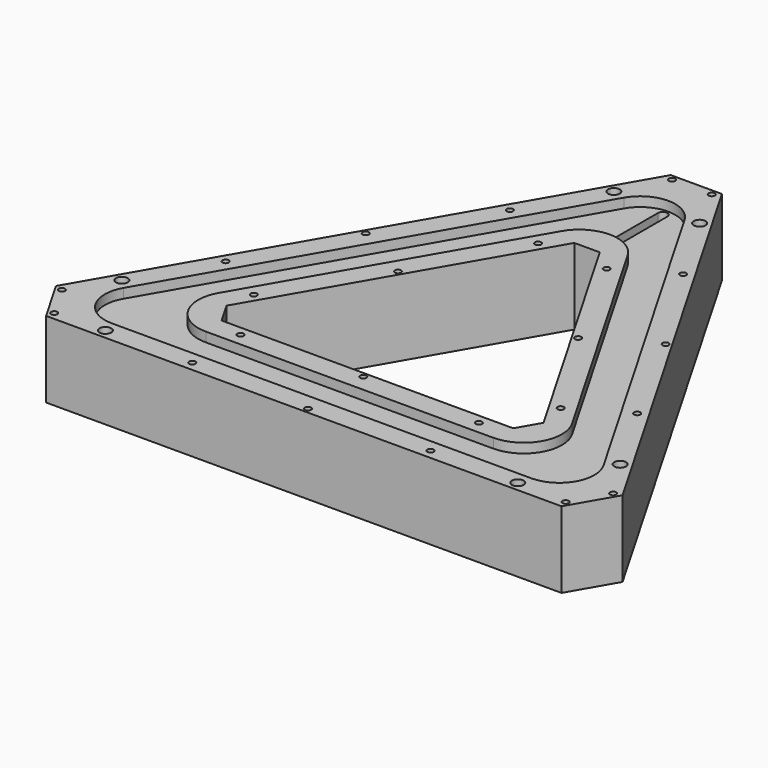
from build123d import *

# Parameters (mm, degrees)
PAD_DEPTH             = 24
POCKET_DEPTH          = 3
SKETCH002_W           = 70
SKETCH002_H           = 18.5
POCKET001_DEPTH       = 18
POLARPATTERN_COUNT    = 3
POCKET002_DEPTH       = 6
CHAMFER_SIZE          = 8
FILLET_R              = 13
FILLET001_R           = 11
CHAMFER001_SIZE       = 16.1
FILLET002_R           = 11
FILLET003_R           = 12
POCKET003_DEPTH       = 6
POCKET004_DEPTH       = 18
POCKET005_DEPTH       = 21.001
SKETCH007_W           = 15.5
SKETCH007_H           = 15
POCKET006_DEPTH       = 5
SKETCH010_W           = 13.6
SKETCH010_H           = 9
POCKET009_DEPTH       = 15.5
POCKET010_DEPTH       = 3
SKETCH012_R           = 1.85
SKETCH012_R_2         = 0.99
POCKET011_DEPTH       = 498.0492855781
POLARPATTERN001_COUNT = 3
POCKET012_DEPTH       = 12
POCKET013_DEPTH       = 3


with BuildPart() as part:
    # Sketch → Pad (new body)
    with BuildSketch(Plane.XY):
        Polygon((0, 112.2094915052), (-97.1762701892, -56.1047457526), (97.1762701892, -56.1047457526), align=None)
        Polygon((0, 62.2094915052), (-53.875, -31.1047457526), (53.875, -31.1047457526), align=None, mode=Mode.SUBTRACT)
    extrude(amount=PAD_DEPTH)

    # Sketch001 (on Face8 of Pad) → Pocket (cut)
    with BuildSketch(Plane.XY.offset(24)):
        Polygon((0, 98.2094915052), (-85.0519145362, -49.1047457526), (85.0519145362, -49.1047457526), align=None)
        Polygon((0, 76.2094915052), (-65.999355653, -38.1047457526), (65.999355653, -38.1047457526), align=None, mode=Mode.SUBTRACT)
    extrude(amount=-POCKET_DEPTH, mode=Mode.SUBTRACT)

    # Sketch002 (on Face4 of Pocket) → Pocket001 (cut)
    with BuildSketch(Plane(origin=(0, 0, 0), x_dir=(1, 0, 0), z_dir=(0, 0, -1))):
        with Locations((0, 43.6047457526)):
            Rectangle(SKETCH002_W, SKETCH002_H)
    pocket001 = extrude(amount=-POCKET001_DEPTH, mode=Mode.SUBTRACT)

    # PolarPattern: Pocket001 ×3 about axis
    polarpattern_axis = Axis((0, 0, 0), (0, 0, -1))
    for i in range(1, POLARPATTERN_COUNT):
        add(pocket001.rotate(polarpattern_axis, i * 360 / POLARPATTERN_COUNT), mode=Mode.SUBTRACT)

    # Sketch003 (on Face4 of PolarPattern) → Pocket002 (cut)
    with BuildSketch(Plane(origin=(0, 0, 0), x_dir=(1, 0, 0), z_dir=(0, 0, -1))):
        Polygon((0, -100.2094915052), (86.7839653438, 50.1047457526), (-86.7839653438, 50.1047457526), align=None)
        Polygon((0, -74.2094915052), (64.2673048454, 37.1047457526), (-64.2673048454, 37.1047457526), align=None, mode=Mode.SUBTRACT)
    extrude(amount=-POCKET002_DEPTH, mode=Mode.SUBTRACT)

    # Chamfer
    chamfer_edges = [part.edges().sort_by_distance(p)[0] for p in [
        (-53.875, -31.104746, 12),
        (53.875, -31.104746, 12),
        (0, 62.209492, 12),
    ]]
    chamfer(chamfer_edges, length=CHAMFER_SIZE)

    # Fillet
    fillet_edges = [part.edges().sort_by_distance(p)[0] for p in [
        (0, 100.209492, 3),
        (-86.783965, -50.104746, 3),
        (86.783965, -50.104746, 3),
    ]]
    fillet(fillet_edges, radius=FILLET_R)

    # Fillet001
    fillet001_edges = [part.edges().sort_by_distance(p)[0] for p in [
        (0, 74.209492, 3),
        (64.267305, -37.104746, 3),
        (-64.267305, -37.104746, 3),
    ]]
    fillet(fillet001_edges, radius=FILLET001_R)

    # Chamfer001
    chamfer001_edges = [part.edges().sort_by_distance(p)[0] for p in [
        (97.17627, -56.104746, 12),
        (0, 112.209492, 12),
        (-97.17627, -56.104746, 12),
    ]]
    chamfer(chamfer001_edges, length=CHAMFER001_SIZE)

    # Fillet002
    fillet002_edges = [part.edges().sort_by_distance(p)[0] for p in [
        (0, 98.209492, 22.5),
        (-85.051915, -49.104746, 22.5),
        (85.051915, -49.104746, 22.5),
    ]]
    fillet(fillet002_edges, radius=FILLET002_R)

    # Fillet003
    fillet003_edges = [part.edges().sort_by_distance(p)[0] for p in [
        (65.999356, -38.104746, 22.5),
        (0, 76.209492, 22.5),
        (-65.999356, -38.104746, 22.5),
    ]]
    fillet(fillet003_edges, radius=FILLET003_R)

    # Sketch004 (on Face60 of Fillet003) → Pocket003 (cut)
    with BuildSketch(Plane(origin=(0, 0, 6), x_dir=(1, 0, 0), z_dir=(0, 0, -1))):
        Polygon((-8.75, -71.2664825043), (8.75, -71.2664825043), (8.75, -94.7664825043), (4, -94.7664825043), (4, -98.2664825043), (-4, -98.2664825043), (-4, -94.7664825043), (-8.75, -94.7664825043), align=None)
    extrude(amount=-POCKET003_DEPTH, mode=Mode.SUBTRACT)

    # Sketch005 (on Face29 of Pocket003) → Pocket004 (cut)
    with BuildSketch(Plane(origin=(0, 0, 0), x_dir=(1, 0, 0), z_dir=(0, 0, -1))):
        Polygon((46.1715988394, 38.9547457526), (68.6882593378, 51.9547457526), (79.3382593378, 33.508404652), (56.8215988394, 20.508404652), align=None)
    extrude(amount=-POCKET004_DEPTH, mode=Mode.SUBTRACT)

    # Sketch006 (on Face1 of Pocket004) → Pocket005 (cut, through all)
    with BuildSketch(Plane.XY.offset(21)):
        with BuildLine():
            ThreePointArc((1.5, 85.0404521425), (0, 86.5404521425), (-1.5, 85.0404521425))
            Line((-1.5, 85.0404521425), (-1.5, 66.0404521425))
            ThreePointArc((-1.5, 66.0404521425), (0, 64.5404521425), (1.5, 66.0404521425))
            Line((1.5, 85.0404521425), (1.5, 66.0404521425))
        make_face()
    extrude(amount=-POCKET005_DEPTH, mode=Mode.SUBTRACT)

    # Sketch007 (on Face24 of Pocket005) → Pocket006 (cut)
    with BuildSketch(Plane(origin=(-48.5881350946, 28.0523728763, 0), x_dir=(-0.5, -0.8660254038, 0), z_dir=(-0.8660254038, 0.5, 0))):
        with Locations((-47.3262701892, 13.5)):
            Rectangle(SKETCH007_W, SKETCH007_H)
    extrude(amount=-POCKET006_DEPTH, mode=Mode.SUBTRACT)

    # Sketch010 (on Face79 of Pocket006) → Pocket009 (cut)
    with BuildSketch(Plane(origin=(-44.2580080757, 25.5523728763, 0), x_dir=(-0.5, -0.8660254038, 0), z_dir=(-0.8660254038, 0.5, 0))):
        with Locations((-47.3262701892, 13.5)):
            Rectangle(SKETCH010_W, SKETCH010_H)
    extrude(amount=-POCKET009_DEPTH, mode=Mode.SUBTRACT)

    # Sketch011 (on Face21 of Pocket009) → Pocket010 (cut)
    with BuildSketch(Plane(origin=(0, 0, 6), x_dir=(1, 0, 0), z_dir=(0, 0, -1))):
        Polygon((-21.0413798427, -59.7570681827), (-11.6817654684, -54.3532923042), (-6.658482036, -63.0538744299), (-16.0180964103, -68.4576503084), align=None)
    extrude(amount=-POCKET010_DEPTH, mode=Mode.SUBTRACT)

    # Sketch012 (on Face54 of Pocket010) → Pocket011 (cut, through all)
    with BuildSketch(Plane(origin=(0, 0, 0), x_dir=(1, 0, 0), z_dir=(0, 0, -1))):
        with Locations((-13.5, -82.7032108255)):
            Circle(SKETCH012_R)
        with Locations((13.5, -82.7032108255)):
            Circle(SKETCH012_R)
        with Locations((-6.25, -96.5164825043)):
            Circle(SKETCH012_R_2)
        with Locations((6.25, -96.5164825043)):
            Circle(SKETCH012_R_2)
        with Locations((-27.2463245869, -59.0174730012)):
            Circle(SKETCH012_R_2)
        with Locations((-47.1862074814, -27.2405827309)):
            Circle(SKETCH012_R_2)
        with Locations((-64.7337931796, 5.9127272486)):
            Circle(SKETCH012_R_2)
        with Locations((-10.791841915, -49.5174730012)):
            Circle(SKETCH012_R_2)
        with Locations((-28.3394276132, -16.3641630217)):
            Circle(SKETCH012_R_2)
        with Locations((-48.2793105078, 15.4127272487)):
            Circle(SKETCH012_R_2)
    pocket011 = extrude(amount=-POCKET011_DEPTH, mode=Mode.SUBTRACT)

    # PolarPattern001: Pocket011 ×3 about axis
    polarpattern001_axis = Axis((0, 0, 0), (0, 0, -1))
    for i in range(1, POLARPATTERN001_COUNT):
        add(pocket011.rotate(polarpattern001_axis, i * 360 / POLARPATTERN001_COUNT), mode=Mode.SUBTRACT)

    # Sketch013 (on Face132 of PolarPattern001) → Pocket012 (cut)
    with BuildSketch(Plane(origin=(0, 0, 6), x_dir=(1, 0, 0), z_dir=(0, 0, -1))):
        Polygon((58.553649647, 21.508404652), (63.3167893678, 24.258404652), (66.3167893678, 19.0622522293), (61.553649647, 16.3122522293), align=None)
    extrude(amount=-POCKET012_DEPTH, mode=Mode.SUBTRACT)

    # Sketch014 (on Face127 of Pocket012) → Pocket013 (cut)
    with BuildSketch(Plane(origin=(0, 0, 6), x_dir=(1, 0, 0), z_dir=(0, 0, -1))):
        Polygon((-74.3478338252, 33.3748379063), (-65.8478338252, 48.0972697706), (-52.8574527684, 40.5972697706), (-61.3574527684, 25.8748379063), align=None)
    extrude(amount=-POCKET013_DEPTH, mode=Mode.SUBTRACT)


solid = part.part
